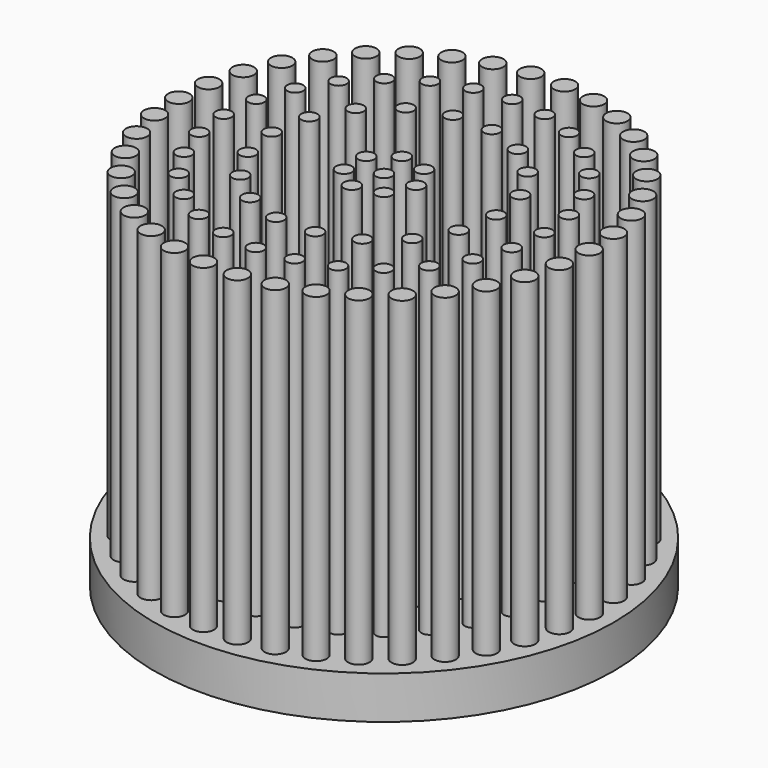
from build123d import *

# Parameters (mm, degrees)
F2_R     = 43
F3_DEPTH = 8
F4_R     = 1.5
F4_R_2   = 2
F5_DEPTH = 60


with BuildPart() as f3:
    # F2 (on Top) → F3 (new body)
    with BuildSketch(Plane.XY):
        Circle(F2_R)
    extrude(amount=F3_DEPTH)

    # F4 (on face) → F5 (join)
    with BuildSketch(Plane.XY.offset(8)):
        Circle(F4_R)
        with Locations((6, 0)):
            Circle(F4_R)
        with Locations((21, 0)):
            Circle(F4_R)
        with Locations((38.41, 0)):
            Circle(F4_R_2)
        with Locations((3.7409388112, 4.6909888948)):
            Circle(F4_R)
        with Locations((-1.3351256037, 5.8495674731)):
            Circle(F4_R)
        with Locations((-5.4058132074, 2.6033024347)):
            Circle(F4_R)
        with Locations((-5.4058132074, -2.6033024347)):
            Circle(F4_R)
        with Locations((-1.3351256037, -5.8495674731)):
            Circle(F4_R)
        with Locations((3.7409388112, -4.6909888948)):
            Circle(F4_R)
        with Locations((19.7335450365, 7.1824230098)):
            Circle(F4_R)
        with Locations((16.0869333055, 13.4985398034)):
            Circle(F4_R)
        with Locations((10.5, 18.1865334795)):
            Circle(F4_R)
        with Locations((3.646611731, 20.6809628133)):
            Circle(F4_R)
        with Locations((-3.646611731, 20.6809628133)):
            Circle(F4_R)
        with Locations((-10.5, 18.1865334795)):
            Circle(F4_R)
        with Locations((-16.0869333055, 13.4985398034)):
            Circle(F4_R)
        with Locations((-19.7335450365, 7.1824230098)):
            Circle(F4_R)
        with Locations((-21, 0)):
            Circle(F4_R)
        with Locations((-19.7335450365, -7.1824230098)):
            Circle(F4_R)
        with Locations((-16.0869333055, -13.4985398034)):
            Circle(F4_R)
        with Locations((-10.5, -18.1865334795)):
            Circle(F4_R)
        with Locations((-3.646611731, -20.6809628133)):
            Circle(F4_R)
        with Locations((3.646611731, -20.6809628133)):
            Circle(F4_R)
        with Locations((10.5, -18.1865334795)):
            Circle(F4_R)
        with Locations((16.0869333055, -13.4985398034)):
            Circle(F4_R)
        with Locations((19.7335450365, -7.1824230098)):
            Circle(F4_R)
        with Locations((30, 0)):
            Circle(F4_R)
        with Locations((29.2478373655, 6.6756280187)):
            Circle(F4_R)
        with Locations((27.0290660371, 13.0165121735)):
            Circle(F4_R)
        with Locations((23.454944474, 18.7046940558)):
            Circle(F4_R)
        with Locations((18.7046940558, 23.454944474)):
            Circle(F4_R)
        with Locations((13.0165121735, 27.0290660371)):
            Circle(F4_R)
        with Locations((6.6756280187, 29.2478373655)):
            Circle(F4_R)
        with Locations((0, 30)):
            Circle(F4_R)
        with Locations((-6.6756280187, 29.2478373655)):
            Circle(F4_R)
        with Locations((-13.0165121735, 27.0290660371)):
            Circle(F4_R)
        with Locations((-18.7046940558, 23.454944474)):
            Circle(F4_R)
        with Locations((-23.454944474, 18.7046940558)):
            Circle(F4_R)
        with Locations((-27.0290660371, 13.0165121735)):
            Circle(F4_R)
        with Locations((-29.2478373655, 6.6756280187)):
            Circle(F4_R)
        with Locations((-30, 0)):
            Circle(F4_R)
        with Locations((-29.2478373655, -6.6756280187)):
            Circle(F4_R)
        with Locations((-27.0290660371, -13.0165121735)):
            Circle(F4_R)
        with Locations((-23.454944474, -18.7046940558)):
            Circle(F4_R)
        with Locations((-18.7046940558, -23.454944474)):
            Circle(F4_R)
        with Locations((-13.0165121735, -27.0290660371)):
            Circle(F4_R)
        with Locations((-6.6756280187, -29.2478373655)):
            Circle(F4_R)
        with Locations((0, -30)):
            Circle(F4_R)
        with Locations((6.6756280187, -29.2478373655)):
            Circle(F4_R)
        with Locations((13.0165121735, -27.0290660371)):
            Circle(F4_R)
        with Locations((18.7046940558, -23.454944474)):
            Circle(F4_R)
        with Locations((23.454944474, -18.7046940558)):
            Circle(F4_R)
        with Locations((27.0290660371, -13.0165121735)):
            Circle(F4_R)
        with Locations((29.2478373655, -6.6756280187)):
            Circle(F4_R)
        with Locations((37.8861376637, 6.3220782127)):
            Circle(F4_R_2)
        with Locations((36.3288402537, 12.4717066122)):
            Circle(F4_R_2)
        with Locations((33.7805867838, 18.2811393666)):
            Circle(F4_R_2)
        with Locations((30.3108869659, 23.5919102944)):
            Circle(F4_R_2)
        with Locations((26.0143851661, 28.259155409)):
            Circle(F4_R_2)
        with Locations((21.0082787535, 32.1555644301)):
            Circle(F4_R_2)
        with Locations((15.4291212609, 35.1748534768)):
            Circle(F4_R_2)
        with Locations((9.4290975611, 37.2346642147)):
            Circle(F4_R_2)
        with Locations((3.1718726596, 38.2788103764)):
            Circle(F4_R_2)
        with Locations((-3.1718726596, 38.2788103764)):
            Circle(F4_R_2)
        with Locations((-9.4290975611, 37.2346642147)):
            Circle(F4_R_2)
        with Locations((-15.4291212609, 35.1748534768)):
            Circle(F4_R_2)
        with Locations((-21.0082787535, 32.1555644301)):
            Circle(F4_R_2)
        with Locations((-26.0143851661, 28.259155409)):
            Circle(F4_R_2)
        with Locations((-30.3108869659, 23.5919102944)):
            Circle(F4_R_2)
        with Locations((-33.7805867838, 18.2811393666)):
            Circle(F4_R_2)
        with Locations((-36.3288402537, 12.4717066122)):
            Circle(F4_R_2)
        with Locations((-37.8861376637, 6.3220782127)):
            Circle(F4_R_2)
        with Locations((-38.41, 0)):
            Circle(F4_R_2)
        with Locations((-37.8861376637, -6.3220782127)):
            Circle(F4_R_2)
        with Locations((-36.3288402537, -12.4717066122)):
            Circle(F4_R_2)
        with Locations((-33.7805867838, -18.2811393666)):
            Circle(F4_R_2)
        with Locations((-30.3108869659, -23.5919102944)):
            Circle(F4_R_2)
        with Locations((-26.0143851661, -28.259155409)):
            Circle(F4_R_2)
        with Locations((-21.0082787535, -32.1555644301)):
            Circle(F4_R_2)
        with Locations((-15.4291212609, -35.1748534768)):
            Circle(F4_R_2)
        with Locations((-9.4290975611, -37.2346642147)):
            Circle(F4_R_2)
        with Locations((-3.1718726596, -38.2788103764)):
            Circle(F4_R_2)
        with Locations((3.1718726596, -38.2788103764)):
            Circle(F4_R_2)
        with Locations((9.4290975611, -37.2346642147)):
            Circle(F4_R_2)
        with Locations((15.4291212609, -35.1748534768)):
            Circle(F4_R_2)
        with Locations((21.0082787535, -32.1555644301)):
            Circle(F4_R_2)
        with Locations((26.0143851661, -28.259155409)):
            Circle(F4_R_2)
        with Locations((30.3108869659, -23.5919102944)):
            Circle(F4_R_2)
        with Locations((33.7805867838, -18.2811393666)):
            Circle(F4_R_2)
        with Locations((36.3288402537, -12.4717066122)):
            Circle(F4_R_2)
        with Locations((37.8861376637, -6.3220782127)):
            Circle(F4_R_2)
    extrude(amount=F5_DEPTH)


solid = f3.part
